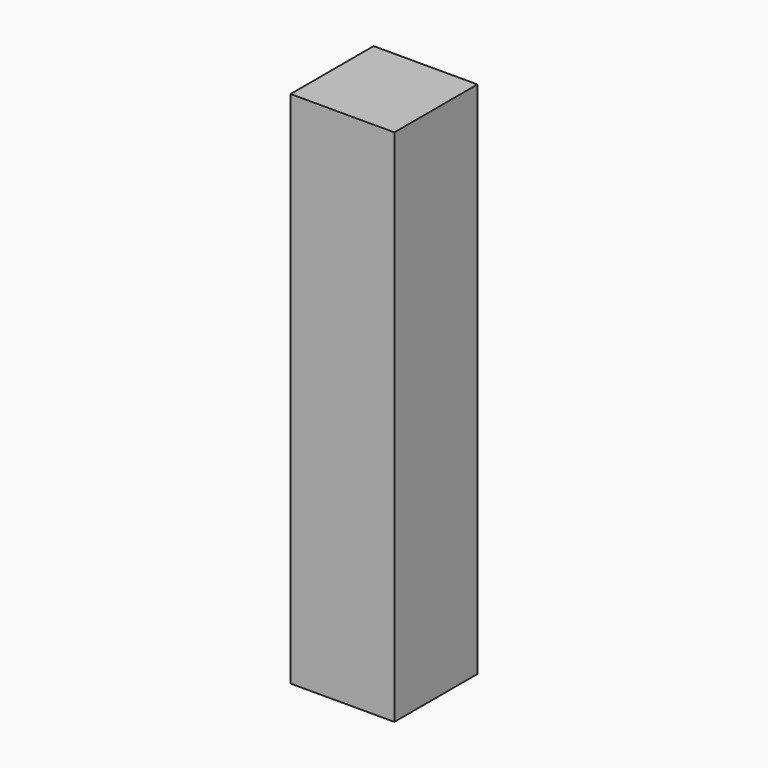
from build123d import *

# Parameters (mm, degrees)
SKETCH_W  = 20
SKETCH_H  = 20
PAD_DEPTH = 100


with BuildPart() as part:
    # Sketch → Pad (new body)
    with BuildSketch(Plane.XY):
        Rectangle(SKETCH_W, SKETCH_H)
    extrude(amount=PAD_DEPTH)


solid = part.part
